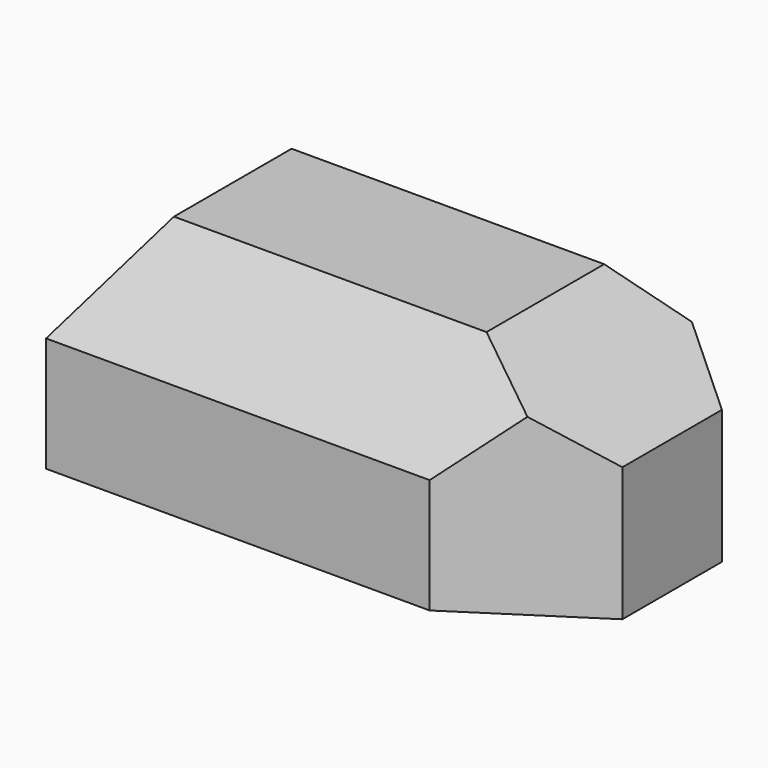
from build123d import *

# Parameters (mm, degrees)
F0_W       = 10.2235
F0_H       = 5.7912
F1_DEPTH   = 4.3307
F2_SIZE2   = 1.4228217176
F2_SIZE    = 2.032
F3_SIZE2   = 1.6494952867
F3_SIZE    = 2.54
F3_2_SIZE2 = 1.6494952867
F3_2_SIZE  = 2.54
F3_3_SIZE2 = 1.6494952867
F3_3_SIZE  = 2.54


with BuildPart() as f1:
    # F0 (on Top) → F1 (new body)
    with BuildSketch(Plane.XY):
        Rectangle(F0_W, F0_H)
    extrude(amount=F1_DEPTH)

    # F2
    f2_edges = [f1.edges().sort_by_distance(p)[0] for p in [
        (0, -2.8956, 4.3307),
        (0, 2.8956, 4.3307),
        (-5.11175, 0, 4.3307),
    ]]
    chamfer(f2_edges, length=F2_SIZE, length2=F2_SIZE2)

    # F3
    f3_edges = [f1.edges().sort_by_distance(p)[0] for p in [
        (5.11175, 0, 4.3307),
    ]]
    f3_side = f1.faces().sort_by_distance((0.711411, 0, 4.3307))[0]
    chamfer(f3_edges, length=F3_SIZE, length2=F3_SIZE2, reference=f3_side)

    # F3#2
    f3_2_edges = [f1.edges().sort_by_distance(p)[0] for p in [
        (5.11175, -2.8956, 1.14935),
    ]]
    f3_2_side = f1.faces().sort_by_distance((0, -2.8956, 1.14935))[0]
    chamfer(f3_2_edges, length=F3_2_SIZE, length2=F3_2_SIZE2, reference=f3_2_side)

    # F3#3
    f3_3_edges = [f1.edges().sort_by_distance(p)[0] for p in [
        (5.11175, 2.8956, 1.14935),
    ]]
    f3_3_side = f1.faces().sort_by_distance((0, 2.8956, 1.14935))[0]
    chamfer(f3_3_edges, length=F3_3_SIZE, length2=F3_3_SIZE2, reference=f3_3_side)


solid = f1.part
